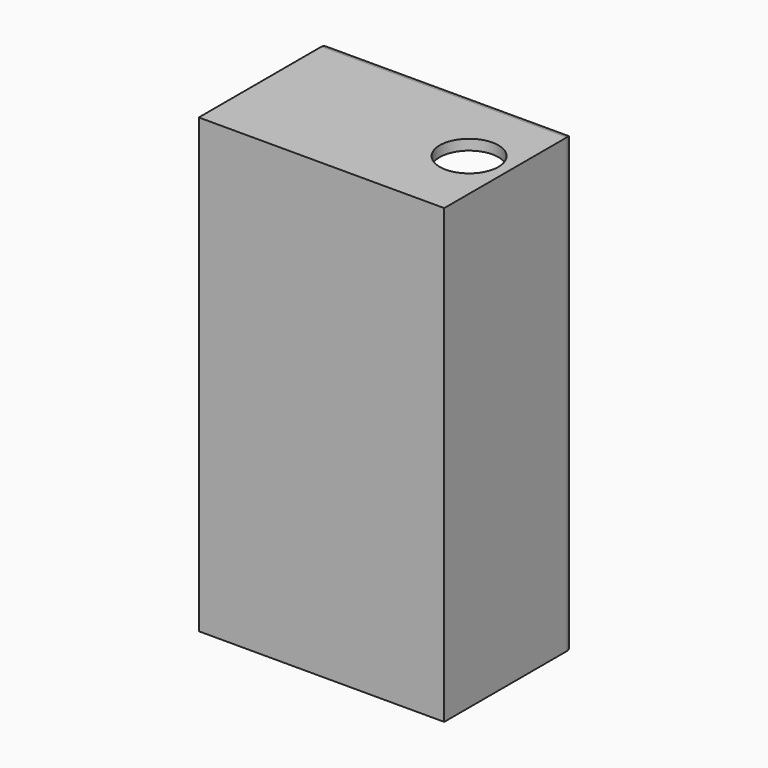
from build123d import *

# Parameters (mm, degrees)
F0_W     = 37.211
F0_H     = 24.511
F1_DEPTH = 68.58
F2_T     = -1.5875
F3_R     = 4.445
F4_DEPTH = 1.5875
F5_R     = 1.27


with BuildPart() as f1:
    # F0 (on Top) → F1 (new body)
    with BuildSketch(Plane.XY):
        Rectangle(F0_W, F0_H)
    extrude(amount=F1_DEPTH)

    # F2
    f2_openings = [f1.faces().sort_by_distance(p)[0] for p in [
        (0, 12.2555, 34.29),
    ]]
    offset(amount=F2_T, openings=f2_openings)

    # F3 (on face) → F4 (cut)
    with BuildSketch(Plane.XY.offset(68.58)):
        with Locations((12.573, 0)):
            Circle(F3_R)
    extrude(amount=-F4_DEPTH, mode=Mode.SUBTRACT)

    # F5
    f5_edges = [f1.edges().sort_by_distance(p)[0] for p in [
        (-18.6055, 12.2555, 34.29),
        (0, 12.2555, 68.58),
        (18.6055, 12.2555, 34.29),
        (0, 12.2555, 0),
    ]]
    fillet(f5_edges, radius=F5_R)


solid = f1.part
